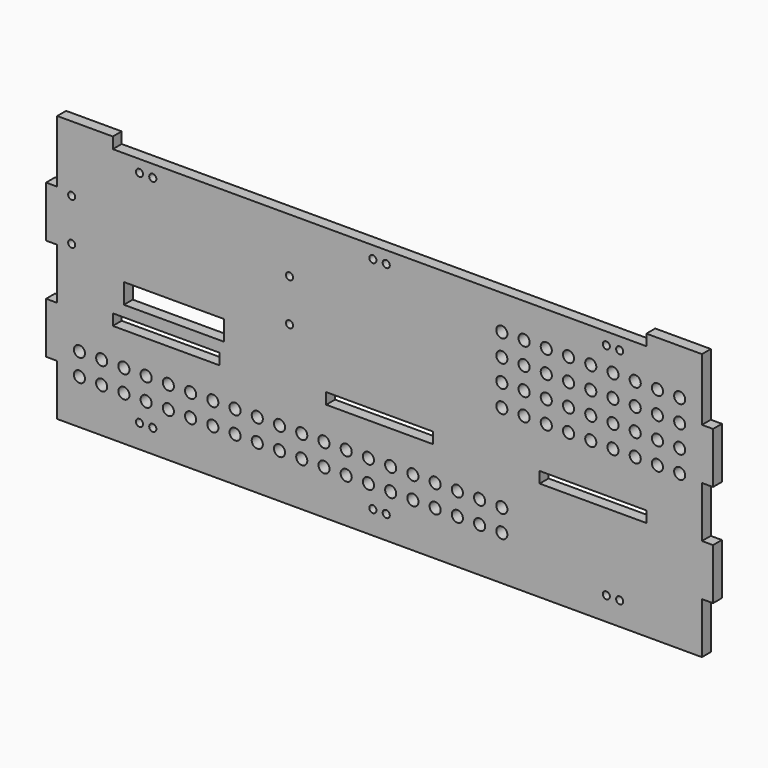
from build123d import *

# Parameters (mm, degrees)
F0_R     = 1.6
F0_W     = 48
F0_H     = 5
F0_W_2   = 45
F0_H_2   = 9
F3_DEPTH = 5
F1_R     = 1.6
F2_R     = 2.5
F4_DEPTH = 5


with BuildPart() as f3:
    # F0 (on Front) → F3 (new body)
    with BuildSketch(Plane.XZ):
        Polygon((-145, -62.300583), (145, -62.300583), (145, -39.300583), (150, -39.300583), (150, -16.300583), (145, -16.300583), (145, 6.699417), (150, 6.699417), (150, 29.699417), (145, 29.699417), (145, 52.699417), (145, 57.699417), (120, 57.699417), (120, 52.699417), (-120, 52.699417), (-120, 57.699417), (-145, 57.699417), (-145, 52.699417), (-145, 29.699417), (-150, 29.699417), (-150, 6.699417), (-145, 6.699417), (-145, -16.300583), (-150, -16.300583), (-150, -39.300583), (-145, -39.300583), align=None)
        with Locations((-108, -51.800583)):
            Circle(F0_R, mode=Mode.SUBTRACT)
        with Locations((-102, -51.800583)):
            Circle(F0_R, mode=Mode.SUBTRACT)
        with Locations((-3, -51.800583)):
            Circle(F0_R, mode=Mode.SUBTRACT)
        with Locations((-96, -14.800583)):
            Rectangle(F0_W, F0_H, mode=Mode.SUBTRACT)
        with Locations((-92.5, -2.800583)):
            Rectangle(F0_W_2, F0_H_2, mode=Mode.SUBTRACT)
        with Locations((3, -51.800583)):
            Circle(F0_R, mode=Mode.SUBTRACT)
        with Locations((102, -51.800583)):
            Circle(F0_R, mode=Mode.SUBTRACT)
        with Locations((108, -51.800583)):
            Circle(F0_R, mode=Mode.SUBTRACT)
        with Locations((0, -14.800583)):
            Rectangle(F0_W, F0_H, mode=Mode.SUBTRACT)
        with Locations((96, -14.800583)):
            Rectangle(F0_W, F0_H, mode=Mode.SUBTRACT)
        with Locations((-108, 47.199417)):
            Circle(F0_R, mode=Mode.SUBTRACT)
        with Locations((-102, 47.199417)):
            Circle(F0_R, mode=Mode.SUBTRACT)
        with Locations((-3, 47.199417)):
            Circle(F0_R, mode=Mode.SUBTRACT)
        with Locations((3, 47.199417)):
            Circle(F0_R, mode=Mode.SUBTRACT)
        with Locations((102, 47.199417)):
            Circle(F0_R, mode=Mode.SUBTRACT)
        with Locations((108, 47.199417)):
            Circle(F0_R, mode=Mode.SUBTRACT)
    extrude(amount=F3_DEPTH)

    # F1 (on face) + F2 (on face) → F4 (cut)
    with BuildSketch(Plane.XZ):
        with Locations((-138.5, 28.199417)):
            Circle(F1_R)
        with Locations((-138.5, 9.199417)):
            Circle(F1_R)
        with Locations((-40.5, 9.199417)):
            Circle(F1_R)
        with Locations((-40.5, 28.199417)):
            Circle(F1_R)
    with BuildSketch(Plane.XZ):
        with Locations((135, 37.199417)):
            Circle(F2_R)
        with Locations((135, 27.199417)):
            Circle(F2_R)
        with Locations((135, 17.199417)):
            Circle(F2_R)
        with Locations((135, 7.199417)):
            Circle(F2_R)
        with Locations((125, 37.199417)):
            Circle(F2_R)
        with Locations((125, 27.199417)):
            Circle(F2_R)
        with Locations((125, 17.199417)):
            Circle(F2_R)
        with Locations((125, 7.199417)):
            Circle(F2_R)
        with Locations((115, 37.199417)):
            Circle(F2_R)
        with Locations((115, 27.199417)):
            Circle(F2_R)
        with Locations((115, 17.199417)):
            Circle(F2_R)
        with Locations((115, 7.199417)):
            Circle(F2_R)
        with Locations((105, 37.199417)):
            Circle(F2_R)
        with Locations((105, 27.199417)):
            Circle(F2_R)
        with Locations((105, 17.199417)):
            Circle(F2_R)
        with Locations((105, 7.199417)):
            Circle(F2_R)
        with Locations((95, 37.199417)):
            Circle(F2_R)
        with Locations((95, 27.199417)):
            Circle(F2_R)
        with Locations((95, 17.199417)):
            Circle(F2_R)
        with Locations((95, 7.199417)):
            Circle(F2_R)
        with Locations((85, 37.199417)):
            Circle(F2_R)
        with Locations((85, 27.199417)):
            Circle(F2_R)
        with Locations((85, 17.199417)):
            Circle(F2_R)
        with Locations((85, 7.199417)):
            Circle(F2_R)
        with Locations((75, 37.199417)):
            Circle(F2_R)
        with Locations((75, 27.199417)):
            Circle(F2_R)
        with Locations((75, 17.199417)):
            Circle(F2_R)
        with Locations((75, 7.199417)):
            Circle(F2_R)
        with Locations((65, 37.199417)):
            Circle(F2_R)
        with Locations((65, 27.199417)):
            Circle(F2_R)
        with Locations((65, 17.199417)):
            Circle(F2_R)
        with Locations((65, 7.199417)):
            Circle(F2_R)
        with Locations((55, 37.199417)):
            Circle(F2_R)
        with Locations((55, 27.199417)):
            Circle(F2_R)
        with Locations((55, 17.199417)):
            Circle(F2_R)
        with Locations((55, 7.199417)):
            Circle(F2_R)
        with Locations((-135, -42.300583)):
            Circle(F2_R)
        with Locations((-135, -32.300583)):
            Circle(F2_R)
        with Locations((-125, -42.300583)):
            Circle(F2_R)
        with Locations((-125, -32.300583)):
            Circle(F2_R)
        with Locations((-115, -42.300583)):
            Circle(F2_R)
        with Locations((-115, -32.300583)):
            Circle(F2_R)
        with Locations((-105, -42.300583)):
            Circle(F2_R)
        with Locations((-105, -32.300583)):
            Circle(F2_R)
        with Locations((-95, -42.300583)):
            Circle(F2_R)
        with Locations((-95, -32.300583)):
            Circle(F2_R)
        with Locations((-85, -42.300583)):
            Circle(F2_R)
        with Locations((-85, -32.300583)):
            Circle(F2_R)
        with Locations((-75, -42.300583)):
            Circle(F2_R)
        with Locations((-75, -32.300583)):
            Circle(F2_R)
        with Locations((-65, -42.300583)):
            Circle(F2_R)
        with Locations((-65, -32.300583)):
            Circle(F2_R)
        with Locations((-55, -42.300583)):
            Circle(F2_R)
        with Locations((-55, -32.300583)):
            Circle(F2_R)
        with Locations((-45, -42.300583)):
            Circle(F2_R)
        with Locations((-45, -32.300583)):
            Circle(F2_R)
        with Locations((-35, -42.300583)):
            Circle(F2_R)
        with Locations((-35, -32.300583)):
            Circle(F2_R)
        with Locations((-25, -42.300583)):
            Circle(F2_R)
        with Locations((-25, -32.300583)):
            Circle(F2_R)
        with Locations((-15, -42.300583)):
            Circle(F2_R)
        with Locations((-15, -32.300583)):
            Circle(F2_R)
        with Locations((-5, -42.300583)):
            Circle(F2_R)
        with Locations((-5, -32.300583)):
            Circle(F2_R)
        with Locations((5, -42.300583)):
            Circle(F2_R)
        with Locations((5, -32.300583)):
            Circle(F2_R)
        with Locations((15, -42.300583)):
            Circle(F2_R)
        with Locations((15, -32.300583)):
            Circle(F2_R)
        with Locations((25, -42.300583)):
            Circle(F2_R)
        with Locations((25, -32.300583)):
            Circle(F2_R)
        with Locations((35, -42.300583)):
            Circle(F2_R)
        with Locations((35, -32.300583)):
            Circle(F2_R)
        with Locations((45, -42.300583)):
            Circle(F2_R)
        with Locations((45, -32.300583)):
            Circle(F2_R)
        with Locations((55, -42.300583)):
            Circle(F2_R)
        with Locations((55, -32.300583)):
            Circle(F2_R)
    extrude(amount=F4_DEPTH, mode=Mode.SUBTRACT)


solid = f3.part
